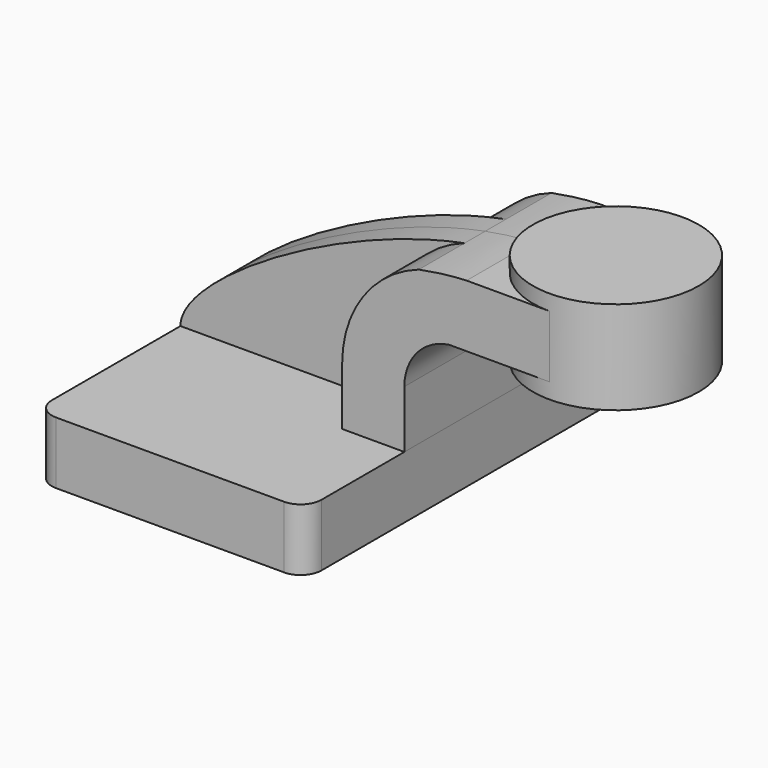
from build123d import *

# Parameters (mm, degrees)
F1_DEPTH = 63.5
F0_W     = 25.4
F0_H     = 19.05
F2_DEPTH = 25.4
F3_DEPTH = 7.9375
F5_R     = 6.35


with BuildPart() as f1:
    # F0 (on Front) → F1 (new body, symmetric)
    with BuildSketch(Plane.XZ):
        Polygon((-41.275, -9.525), (41.275, -9.525), (41.275, 9.525), (22.225, 9.525), (-41.275, 9.525), align=None)
    extrude(amount=F1_DEPTH, both=True)

    # F5
    f5_edges = [f1.edges().sort_by_distance(p)[0] for p in [
        (41.275, -63.5, 0),
        (-41.275, -63.5, 0),
        (41.275, 63.5, 0),
        (-41.275, 63.5, 0),
    ]]
    fillet(f5_edges, radius=F5_R)


with BuildPart() as f2:
    # F0 (on Front) → F2 (new body, symmetric)
    with BuildSketch(Plane.XZ):
        with BuildLine():
            Line((22.225, 9.525), (41.275, 9.525))
            Line((41.275, 9.525), (41.275, 27.144818))
            ThreePointArc((41.275, 27.144818), (45.192678, 37.586948), (55.012082, 42.8752))
            Line((55.012082, 42.8752), (60.325, 42.8752))
            Line((60.325, 42.8752), (60.325, 61.9252))
            add(Edge.make_bspline(
                [(45.710131, 60.143075), (50.758563, 61.115096), (55.669671, 61.734698), (60.325, 61.9252)],
                knots=[101.309781, 101.309781, 101.309781, 101.309781, 114.316845, 114.316845, 114.316845, 114.316845], degree=3))
            ThreePointArc((45.710131, 60.143075), (28.695712, 47.395968), (22.225, 27.144818))
            Line((22.225, 27.144818), (22.225, 9.525))
        make_face()
        with Locations((73.025, 52.4002)):
            Rectangle(F0_W, F0_H)
    extrude(amount=F2_DEPTH, both=True)

    # F0 (on Front) → F4 (revolve)
    with BuildSketch(Plane.XZ):
        Polygon((85.725, 66.675), (85.725, 61.9252), (85.725, 42.8752), (85.725, 38.1), (111.125, 38.1), (111.125, 66.675), align=None)
    revolve(axis=Axis((85.725, 0, 52.3875), (0, 0, 1)))


with BuildPart() as f3:
    # F0 (on Front) → F3 (new body, symmetric)
    with BuildSketch(Plane.XZ):
        with BuildLine():
            add(Edge.make_bspline(
                [(-41.275, 9.525), (-41.263515, 23.621546), (6.388761, 52.572176), (45.710131, 60.143075)],
                knots=[0, 0, 0, 0, 101.309781, 101.309781, 101.309781, 101.309781], degree=3))
            Line((-41.275, 9.525), (22.225, 9.525))
            Line((22.225, 9.525), (22.225, 27.144818))
            ThreePointArc((22.225, 27.144818), (28.695712, 47.395968), (45.710131, 60.143075))
        make_face()
    extrude(amount=F3_DEPTH, both=True)


solid = Compound([f1.part, f2.part, f3.part])
